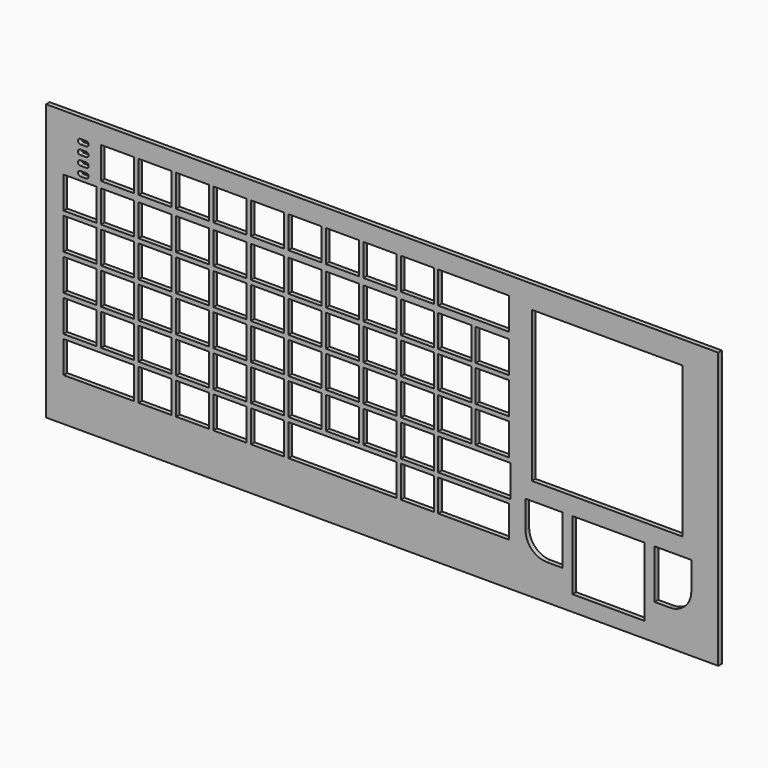
from build123d import *

# Parameters (mm, degrees)
F0_W     = 146.3499564361
F0_H     = 60.05
F0_W_2   = 15.7
F0_H_2   = 15
F0_W_3   = 32.8
F0_H_3   = 32.8
F0_W_4   = 0.95
F0_H_4   = 6.9310881464
F0_H_5   = 6.9310881427
F0_H_6   = 6.93108815
F1_DEPTH = 1


with BuildPart() as f1:
    # F0 (on Front) → F1 (new body)
    with BuildSketch(Plane.XZ):
        with Locations((10.8022314047, -2.9372928323)):
            Rectangle(F0_W, F0_H)
        Polygon((-58.5727468133, -21.7966495022), (-58.5727468133, -16.6677335641), (-51.3644185354, -16.6677335641), (-50.4144171103, -16.6677335641), (-43.2060874073, -16.6677335641), (-42.2560874073, -16.6677335641), (-35.0477577043, -16.6677335641), (-34.0977577043, -16.6677335641), (-26.8894280013, -16.6677335641), (-25.9394280013, -16.6677335641), (-18.7310982983, -16.6677335641), (-17.7810982983, -16.6677335641), (-10.5727685953, -16.6677335641), (-9.6227685953, -16.6677335641), (-2.4144403174, -16.6677335641), (-1.4644403174, -16.6677335641), (5.7438893856, -16.6677335641), (6.6938893856, -16.6677335641), (13.9022190887, -16.6677335641), (14.8522190887, -16.6677335641), (22.0605487917, -16.6677335641), (23.0105487917, -16.6677335641), (30.2188784947, -16.6677335641), (31.1688784947, -16.6677335641), (38.3772081977, -16.6677335641), (38.3772081977, -23.5988217105), (31.1688784947, -23.5988217105), (30.2188784947, -23.5988217105), (23.0105487917, -23.5988217105), (22.0605487917, -23.5988217105), (14.8522190887, -23.5988217105), (13.9022190887, -23.5988217105), (6.6938893856, -23.5988217105), (5.7438893856, -23.5988217105), (-1.4644403174, -23.5988217105), (-2.4144388923, -23.5988217105), (-9.6227685953, -23.5988217105), (-10.5727685953, -23.5988217105), (-17.7810982983, -23.5988217105), (-18.7310982983, -23.5988217105), (-25.9394280013, -23.5988217105), (-26.8894280013, -23.5988217105), (-34.0977577043, -23.5988217105), (-35.0477577043, -23.5988217105), (-42.2560874073, -23.5988217105), (-43.2060874073, -23.5988217105), (-50.4144185354, -23.5988217105), (-51.3644171103, -23.5988217105), (-56.770574605, -23.5988217105), (-58.5727468133, -23.5988217105), align=None, mode=Mode.SUBTRACT)
        Polygon((-58.5727468133, -15.7177335641), (-58.5727468133, -8.7866454178), (-51.3644171103, -8.7866454178), (-50.4144171103, -8.7866454178), (-43.2060874073, -8.7866454178), (-42.2560874073, -8.7866454178), (-35.0477577043, -8.7866454178), (-34.0977577043, -8.7866454178), (-26.8894280013, -8.7866454178), (-25.9394280013, -8.7866454178), (-18.7310982983, -8.7866454178), (-17.7810982983, -8.7866454178), (-10.5727685953, -8.7866454178), (-9.6227685953, -8.7866454178), (-2.4144388923, -8.7866454178), (-1.4644388923, -8.7866454178), (5.7438908107, -8.7866454178), (6.6938908107, -8.7866454178), (13.9022205138, -8.7866454178), (14.8522205138, -8.7866454178), (22.0605502168, -8.7866454178), (23.0105502168, -8.7866454178), (30.2188784947, -8.7866454178), (31.5087737263, -8.7866454178), (38.7171034293, -8.7866454178), (38.7171034293, -15.7177335641), (31.1688784947, -15.7177335641), (30.2188799198, -15.7177335641), (23.0105502168, -15.7177335641), (22.0605502168, -15.7177335641), (14.8522205138, -15.7177335641), (13.9022205138, -15.7177335641), (6.6938908107, -15.7177335641), (5.7438908107, -15.7177335641), (-1.4644388923, -15.7177335641), (-2.4144388923, -15.7177335641), (-9.6227685953, -15.7177335641), (-10.5727685953, -15.7177335641), (-17.7810982983, -15.7177335641), (-18.7310982983, -15.7177335641), (-25.9394280013, -15.7177335641), (-26.8894280013, -15.7177335641), (-34.0977577043, -15.7177335641), (-35.0477577043, -15.7177335641), (-42.2560874073, -15.7177335641), (-43.2060874073, -15.7177335641), (-50.4144171103, -15.7177335641), (-51.3644171103, -15.7177335641), align=None, mode=Mode.SUBTRACT)
        Polygon((-58.5727468133, -7.8366454178), (-58.5727468133, -0.9055572678), (-51.3644171138, -0.9055572678), (-50.4144171138, -0.9055572678), (-43.2060874143, -0.9055572678), (-42.2560874143, -0.9055572678), (-35.0477577147, -0.9055572678), (-34.0977577147, -0.9055572678), (-26.8894280152, -0.9055572678), (-25.9394280152, -0.9055572678), (-18.7310983157, -0.9055572678), (-17.7810983157, -0.9055572678), (-10.5727686162, -0.9055572678), (-9.6227686162, -0.9055572678), (-2.4144389167, -0.9055572678), (-1.4644389167, -0.9055572678), (5.7438907828, -0.9055572678), (6.6938907828, -0.9055572678), (13.9022204823, -0.9055572678), (14.8522204823, -0.9055572678), (22.0605501819, -0.9055572678), (23.0105501819, -0.9055572678), (30.2188798814, -0.9055572678), (31.1688798814, -0.9055572678), (38.3772095809, -0.9055572678), (38.3772095809, -7.8366454178), (31.1688798814, -7.8366454178), (30.2188798814, -7.8366454178), (23.0105501819, -7.8366454178), (22.0605501819, -7.8366454178), (14.8522204824, -7.8366454178), (13.9022204824, -7.8366454178), (6.6938907828, -7.8366454178), (5.7438907828, -7.8366454178), (-1.4644389167, -7.8366454178), (-2.4144389167, -7.8366454178), (-9.6227686162, -7.8366454178), (-10.5727686162, -7.8366454178), (-17.7810983157, -7.8366454178), (-18.7310983157, -7.8366454178), (-25.9394280152, -7.8366454178), (-26.8894280152, -7.8366454178), (-34.0977577147, -7.8366454178), (-35.0477577147, -7.8366454178), (-42.2560874143, -7.8366454178), (-43.2060874143, -7.8366454178), (-50.4144171138, -7.8366454178), (-51.3644171138, -7.8366454178), align=None, mode=Mode.SUBTRACT)
        with BuildLine():
            Line((42.0171034293, -20.5622928323), (42.0171034293, -14.5622928323))
            Line((42.0171034293, -14.5622928323), (50.0171034293, -14.5622928323))
            Line((50.0171034293, -14.5622928323), (50.0171034293, -25.2222928323))
            Line((50.0171034293, -25.2222928323), (46.6771034293, -25.2222928323))
            ThreePointArc((46.6771034293, -25.2222928323), (43.381985829, -23.8574104326), (42.0171034293, -20.5622928323))
        make_face(mode=Mode.SUBTRACT)
        with Locations((60.0671034293, -22.0622928323)):
            Rectangle(F0_W_2, F0_H_2, mode=Mode.SUBTRACT)
        with BuildLine():
            Line((70.1171034293, -25.2222928323), (70.1171034293, -14.5622928323))
            Line((70.1171034293, -14.5622928323), (78.1171034293, -14.5622928323))
            Line((78.1171034293, -14.5622928323), (78.1171034293, -20.5622928323))
            ThreePointArc((78.1171034293, -20.5622928323), (76.7522210296, -23.8574104326), (73.4571034293, -25.2222928323))
            Line((73.4571034293, -25.2222928323), (70.1171034293, -25.2222928323))
        make_face(mode=Mode.SUBTRACT)
        Polygon((-58.5727468133, 0.0444427322), (-58.5727468133, 6.975530875), (-51.3644171068, 6.975530875), (-50.4144171068, 6.975530875), (-43.2060874003, 6.975530875), (-42.2560874003, 6.975530875), (-35.0477576938, 6.975530875), (-34.0977576938, 6.975530875), (-26.8894279873, 6.975530875), (-25.9394279873, 6.975530875), (-18.7310982808, 6.975530875), (-17.7810982808, 6.975530875), (-10.5727685743, 6.975530875), (-9.6227685743, 6.975530875), (-2.4144388678, 6.975530875), (-1.4644388678, 6.975530875), (5.7438908387, 6.975530875), (6.6938908387, 6.975530875), (13.9022205452, 6.975530875), (14.8522205452, 6.975530875), (22.0605502517, 6.975530875), (23.0105502517, 6.975530875), (30.2188799582, 6.975530875), (31.1688799582, 6.975530875), (38.3772096646, 6.975530875), (38.3772096646, 0.0444427322), (31.1688799582, 0.0444427322), (30.2188799582, 0.0444427322), (23.0105502517, 0.0444427322), (22.0605502517, 0.0444427322), (14.8522205452, 0.0444427322), (13.9022205452, 0.0444427322), (6.6938908387, 0.0444427322), (5.7438908387, 0.0444427322), (-1.4644388678, 0.0444427322), (-2.4144388678, 0.0444427322), (-9.6227685743, 0.0444427322), (-10.5727685743, 0.0444427322), (-17.7810982808, 0.0444427322), (-18.7310982808, 0.0444427322), (-25.9394279873, 0.0444427322), (-26.8894279873, 0.0444427322), (-34.0977576938, 0.0444427322), (-35.0477576938, 0.0444427322), (-42.2560874003, 0.0444427322), (-43.2060874003, 0.0444427322), (-50.4144171068, 0.0444427322), (-51.3644171068, 0.0444427322), align=None, mode=Mode.SUBTRACT)
        Polygon((-58.5727468133, 7.925530875), (-58.5727468133, 14.8566190213), (-51.3644171103, 14.8566190213), (-50.4144171103, 14.8566190213), (-43.2060874073, 14.8566190213), (-42.2560874073, 14.8566190213), (-35.0477577043, 14.8566190213), (-34.0977577043, 14.8566190213), (-26.8894280013, 14.8566190213), (-25.9394280013, 14.8566190213), (-18.7310982983, 14.8566190213), (-17.7810982983, 14.8566190213), (-10.5727685953, 14.8566190213), (-9.6227685953, 14.8566190213), (-2.4144388923, 14.8566190213), (-1.4644388923, 14.8566190213), (5.7438908107, 14.8566190213), (6.6938908107, 14.8566190213), (13.9022205138, 14.8566190213), (14.8522205138, 14.8566190213), (22.0605502168, 14.8566190213), (23.0105502168, 14.8566190213), (30.2188799198, 14.8566190213), (31.1688799198, 14.8566190213), (38.3772096228, 14.8566190213), (38.3772096228, 7.925530875), (31.1688799198, 7.925530875), (30.2188799198, 7.925530875), (23.0105502168, 7.925530875), (22.0605502168, 7.925530875), (14.8522205138, 7.925530875), (13.9022205138, 7.925530875), (6.6938908107, 7.925530875), (5.7438908107, 7.925530875), (-1.4644388923, 7.925530875), (-2.4144388923, 7.925530875), (-9.6227685953, 7.925530875), (-10.5727685953, 7.925530875), (-17.7810982983, 7.925530875), (-18.7310982983, 7.925530875), (-25.9394280013, 7.925530875), (-26.8894280013, 7.925530875), (-34.0977577043, 7.925530875), (-35.0477577043, 7.925530875), (-42.2560874073, 7.925530875), (-43.2060874073, 7.925530875), (-50.4144171103, 7.925530875), (-51.3644171103, 7.925530875), align=None, mode=Mode.SUBTRACT)
        with BuildLine():
            Line((-54.9038787972, 16.7411119385), (-54.2639355099, 16.7411119385))
            Line((-54.2639355099, 16.7411119385), (-53.6239922225, 16.7411119385))
            ThreePointArc((-53.6239922225, 16.7411119385), (-53.0989355099, 16.223716304), (-53.6085582959, 15.6911119385))
            Line((-53.6085582959, 15.6911119385), (-54.9193127238, 15.6911119385))
            ThreePointArc((-54.9193127238, 15.6911119385), (-55.4289355099, 16.223716304), (-54.9038787972, 16.7411119385))
        make_face(mode=Mode.SUBTRACT)
        with BuildLine():
            Line((-54.9193127238, 18.7911023473), (-54.2793138064, 18.7911023473))
            Line((-54.2793138064, 18.7911023473), (-53.639314889, 18.7911023473))
            ThreePointArc((-53.639314889, 18.7911023473), (-53.1143138064, 18.2671663558), (-53.6371825459, 17.7411023473))
            Line((-53.6371825459, 17.7411023473), (-54.2793138064, 17.7411023473))
            Line((-54.2793138064, 17.7411023473), (-54.921445067, 17.7411023473))
            ThreePointArc((-54.921445067, 17.7411023473), (-55.4443138064, 18.2671663558), (-54.9193127238, 18.7911023473))
        make_face(mode=Mode.SUBTRACT)
        with BuildLine():
            Line((-54.9337283264, 20.8411063985), (-54.2937778025, 20.8411063985))
            Line((-54.2937778025, 20.8411063985), (-53.6538272787, 20.8411063985))
            ThreePointArc((-53.6538272787, 20.8411063985), (-53.1287778025, 20.308798961), (-53.6682428812, 19.7911063985))
            Line((-53.6682428812, 19.7911063985), (-54.2937778025, 19.7911063985))
            Line((-54.2937778025, 19.7911063985), (-54.9193127238, 19.7911063985))
            ThreePointArc((-54.9193127238, 19.7911063985), (-55.4587778025, 20.308798961), (-54.9337283264, 20.8411063985))
        make_face(mode=Mode.SUBTRACT)
        with BuildLine():
            ThreePointArc((-54.8983731269, 21.8411119385), (-55.4444171103, 22.3554312646), (-54.9193127238, 22.8911119385))
            Line((-54.9193127238, 22.8911119385), (-53.6395214968, 22.8911119385))
            ThreePointArc((-53.6395214968, 22.8911119385), (-53.1144171103, 22.3554312646), (-53.6604610937, 21.8411119385))
            Line((-53.6604610937, 21.8411119385), (-54.2794171103, 21.8411119385))
            Line((-54.2794171103, 21.8411119385), (-54.8983731269, 21.8411119385))
        make_face(mode=Mode.SUBTRACT)
        Polygon((-50.4144171103, 16.2566190213), (-50.4144171103, 23.1877071677), (-43.2060874073, 23.1877071677), (-42.2560874073, 23.1877071677), (-35.0477577043, 23.1877071677), (-34.0977577043, 23.1877071677), (-26.8894280013, 23.1877071677), (-25.9394280013, 23.1877071677), (-18.7310982983, 23.1877071677), (-17.7810982983, 23.1877071677), (-10.5727685953, 23.1877071677), (-9.6227685953, 23.1877071677), (-2.4144388923, 23.1877071677), (-1.4644388923, 23.1877071677), (5.7438908107, 23.1877071677), (6.6938908107, 23.1877071677), (13.9022205138, 23.1877071677), (14.8522205138, 23.1877071677), (22.0605502168, 23.1877071677), (23.0105502168, 23.1877071677), (30.2188799198, 23.1877071677), (31.1688799198, 23.1877071677), (38.3772096228, 23.1877071677), (38.3772096228, 16.2566190213), (31.1688799198, 16.2566190213), (30.2188799198, 16.2566190213), (23.0105502168, 16.2566190213), (22.0605502168, 16.2566190213), (14.8522205138, 16.2566190213), (13.9022205138, 16.2566190213), (6.6938908107, 16.2566190213), (5.7438908107, 16.2566190213), (-1.4644388923, 16.2566190213), (-2.4144388923, 16.2566190213), (-9.6227685953, 16.2566190213), (-10.5727685953, 16.2566190213), (-17.7810982983, 16.2566190213), (-18.7310982983, 16.2566190213), (-25.9394280013, 16.2566190213), (-26.8894280013, 16.2566190213), (-34.0977577043, 16.2566190213), (-35.0477577043, 16.2566190213), (-42.2560874073, 16.2566190213), (-43.2060874073, 16.2566190213), align=None, mode=Mode.SUBTRACT)
        with Locations((59.7772096228, 5.6877071677)):
            Rectangle(F0_W_3, F0_H_3, mode=Mode.SUBTRACT)
        with Locations((-42.7310874073, 19.7221630945)):
            Rectangle(F0_W_4, F0_H_4)
        with Locations((-34.5727577043, 19.7221630945)):
            Rectangle(F0_W_4, F0_H_4)
        with Locations((-26.4144280013, 19.7221630945)):
            Rectangle(F0_W_4, F0_H_4)
        with Locations((-18.2560982983, 19.7221630945)):
            Rectangle(F0_W_4, F0_H_4)
        with Locations((-10.0977685953, 19.7221630945)):
            Rectangle(F0_W_4, F0_H_4)
        with Locations((-1.9394388923, 19.7221630945)):
            Rectangle(F0_W_4, F0_H_4)
        with Locations((6.2188908107, 19.7221630945)):
            Rectangle(F0_W_4, F0_H_4)
        with Locations((14.3772205138, 19.7221630945)):
            Rectangle(F0_W_4, F0_H_4)
        with Locations((22.5355502168, 19.7221630945)):
            Rectangle(F0_W_4, F0_H_4)
        with Locations((22.5355502168, 11.3910749482)):
            Rectangle(F0_W_4, F0_H_4)
        with Locations((30.6938799198, 11.3910749482)):
            Rectangle(F0_W_4, F0_H_4)
        with Locations((14.3772205138, 11.3910749482)):
            Rectangle(F0_W_4, F0_H_4)
        with Locations((6.2188908107, 11.3910749482)):
            Rectangle(F0_W_4, F0_H_4)
        with Locations((-1.9394388923, 11.3910749482)):
            Rectangle(F0_W_4, F0_H_4)
        with Locations((-10.0977685953, 11.3910749482)):
            Rectangle(F0_W_4, F0_H_4)
        with Locations((-18.2560982983, 11.3910749482)):
            Rectangle(F0_W_4, F0_H_4)
        with Locations((-26.4144280013, 11.3910749482)):
            Rectangle(F0_W_4, F0_H_4)
        with Locations((-34.5727577043, 11.3910749482)):
            Rectangle(F0_W_4, F0_H_4)
        with Locations((-42.7310874073, 11.3910749482)):
            Rectangle(F0_W_4, F0_H_4)
        with Locations((-50.8894171103, 11.3910749482)):
            Rectangle(F0_W_4, F0_H_4)
        with Locations((-50.8894171068, 3.5099868036)):
            Rectangle(F0_W_4, F0_H_5)
        with Locations((-42.7310874003, 3.5099868036)):
            Rectangle(F0_W_4, F0_H_5)
        with Locations((-34.5727576938, 3.5099868036)):
            Rectangle(F0_W_4, F0_H_5)
        with Locations((-26.4144279873, 3.5099868036)):
            Rectangle(F0_W_4, F0_H_5)
        with Locations((-18.2560982808, 3.5099868036)):
            Rectangle(F0_W_4, F0_H_5)
        with Locations((-10.0977685743, 3.5099868036)):
            Rectangle(F0_W_4, F0_H_5)
        with Locations((-1.9394388678, 3.5099868036)):
            Rectangle(F0_W_4, F0_H_5)
        with Locations((6.2188908387, 3.5099868036)):
            Rectangle(F0_W_4, F0_H_5)
        with Locations((14.3772205452, 3.5099868036)):
            Rectangle(F0_W_4, F0_H_5)
        with Locations((22.5355502517, 3.5099868036)):
            Rectangle(F0_W_4, F0_H_5)
        with Locations((30.6938799582, 3.5099868036)):
            Rectangle(F0_W_4, F0_H_5)
        with Locations((30.6938798814, -4.3711013428)):
            Rectangle(F0_W_4, F0_H_6)
        with Locations((22.5355501819, -4.3711013428)):
            Rectangle(F0_W_4, F0_H_6)
        with Locations((14.3772204824, -4.3711013428)):
            Rectangle(F0_W_4, F0_H_6)
        with Locations((-10.0977686162, -4.3711013428)):
            Rectangle(F0_W_4, F0_H_6)
        with Locations((-18.2560983157, -4.3711013428)):
            Rectangle(F0_W_4, F0_H_6)
        with Locations((-26.4144280152, -4.3711013428)):
            Rectangle(F0_W_4, F0_H_6)
        with Locations((-1.9394389167, -4.3711013428)):
            Rectangle(F0_W_4, F0_H_6)
        with Locations((6.2188907828, -4.3711013428)):
            Rectangle(F0_W_4, F0_H_6)
        with Locations((-34.5727577147, -4.3711013428)):
            Rectangle(F0_W_4, F0_H_6)
        with Locations((-42.7310874143, -4.3711013428)):
            Rectangle(F0_W_4, F0_H_6)
        with Locations((-50.8894171138, -4.3711013428)):
            Rectangle(F0_W_4, F0_H_6)
        with Locations((-50.8894171103, -12.252189491)):
            Rectangle(F0_W_4, F0_H_4)
        with Locations((-42.7310874073, -12.252189491)):
            Rectangle(F0_W_4, F0_H_4)
        with Locations((-34.5727577043, -12.252189491)):
            Rectangle(F0_W_4, F0_H_4)
        with Locations((-26.4144280013, -12.252189491)):
            Rectangle(F0_W_4, F0_H_4)
        with Locations((-18.2560982983, -12.252189491)):
            Rectangle(F0_W_4, F0_H_4)
        with Locations((-10.0977685953, -12.252189491)):
            Rectangle(F0_W_4, F0_H_4)
        with Locations((-1.9394388923, -12.252189491)):
            Rectangle(F0_W_4, F0_H_4)
        with Locations((6.2188908107, -12.252189491)):
            Rectangle(F0_W_4, F0_H_4)
        with Locations((14.3772205138, -12.252189491)):
            Rectangle(F0_W_4, F0_H_4)
        with Locations((22.5355502168, -12.252189491)):
            Rectangle(F0_W_4, F0_H_4)
        with Locations((-42.7310874073, -20.1332776373)):
            Rectangle(F0_W_4, F0_H_4)
        with Locations((-34.5727577043, -20.1332776373)):
            Rectangle(F0_W_4, F0_H_4)
        with Locations((-26.4144280013, -20.1332776373)):
            Rectangle(F0_W_4, F0_H_4)
        with Locations((-18.2560982983, -20.1332776373)):
            Rectangle(F0_W_4, F0_H_4)
        with Locations((-10.0977685953, -20.1332776373)):
            Rectangle(F0_W_4, F0_H_4)
        with Locations((14.3772190887, -20.1332776373)):
            Rectangle(F0_W_4, F0_H_4)
        with Locations((22.5355487917, -20.1332776373)):
            Rectangle(F0_W_4, F0_H_4)
    extrude(amount=F1_DEPTH)


solid = f1.part
